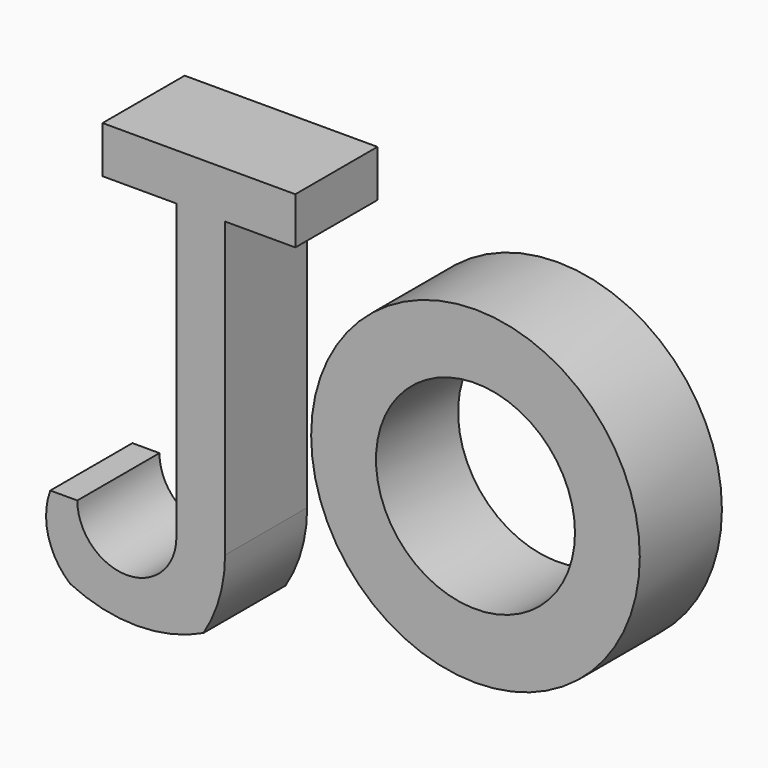
from build123d import *

# Parameters (mm, degrees)
F0_R     = 40.024836
F0_R_2   = 24.233593
F1_DEPTH = 25


with BuildPart() as f1:
    # F0 (on Front) → F1 (new body)
    with BuildSketch(Plane.XZ):
        Polygon((-16.235648, 50.462149), (-63.187383, 50.462149), (-63.187383, 39.053313), (-45.196533, 39.053313), (-33.348896, 39.053313), (-16.235648, 39.053313), align=None)
        with BuildLine():
            Line((-33.348896, 39.053313), (-45.196533, 39.053313))
            Line((-45.196533, 39.053313), (-45.196533, -32.471295))
            ThreePointArc((-45.196533, -32.471295), (-57.263568, -44.53833), (-69.330603, -32.471295))
            Line((-69.330603, -32.471295), (-75.912617, -32.471295))
            ThreePointArc((-75.912617, -32.471295), (-76.40118, -42.446159), (-71.085811, -50.900947))
            ThreePointArc((-71.085811, -50.900947), (-54.850161, -54.613796), (-38.614511, -50.900947))
            ThreePointArc((-38.614511, -50.900947), (-34.691121, -42.054859), (-33.348896, -32.471295))
            Line((-33.348896, -32.471295), (-33.348896, 39.053313))
        make_face()
        with Locations((27.644482, 0)):
            Circle(F0_R)
        with Locations((27.644482, 0)):
            Circle(F0_R_2, mode=Mode.SUBTRACT)
    extrude(amount=F1_DEPTH)


solid = f1.part
